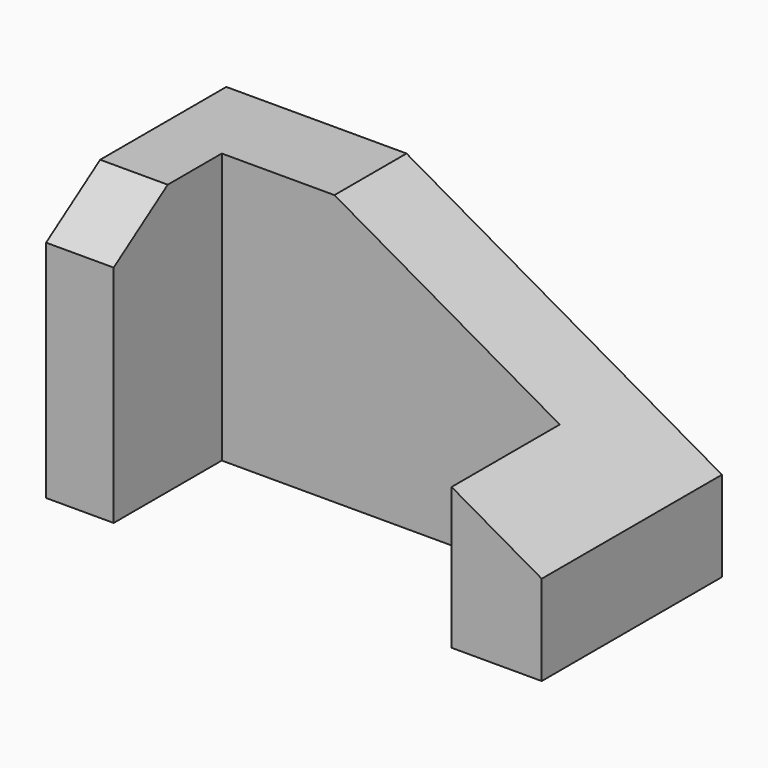
from build123d import *

# Parameters (mm, degrees)
F1_DEPTH = 60
F3_DEPTH = 15
F5_DEPTH = 50


with BuildPart() as f1:
    # F0 (on Top) → F1 (new body)
    with BuildSketch(Plane.XY):
        Polygon((55, 25), (-55, 25), (-55, -25), (-40, -25), (-40, 5), (35, 5), (35, -25), (55, -25), align=None)
    extrude(amount=F1_DEPTH)

    # F2 (on face) → F3 (cut)
    with BuildSketch(Plane.YZ.offset(-40)):
        Polygon((-10, 60), (-25, 60), (-25, 49.899567), align=None)
    extrude(amount=-F3_DEPTH, mode=Mode.SUBTRACT)

    # F4 (on face) → F5 (cut)
    with BuildSketch(Plane(origin=(0, 25, 0), x_dir=(-1, 0, 0), z_dir=(0, 1, 0))):
        Polygon((-55, 20), (15, 60), (-55, 60), align=None)
    extrude(amount=-F5_DEPTH, mode=Mode.SUBTRACT)


solid = f1.part
